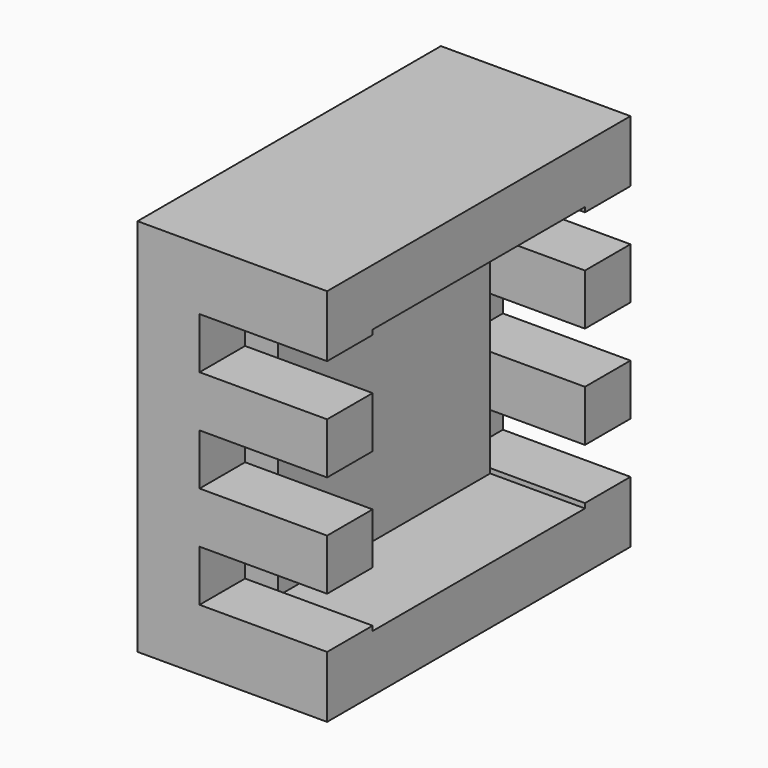
from build123d import *

# Parameters (mm, degrees)
F0_W     = 25.4
F0_H     = 50.8
F1_DEPTH = 50.8
F2_W     = 35.56
F2_H     = 35.56
F3_DEPTH = 12.7
F4_W     = 17.088712
F4_H     = 6.858
F5_DEPTH = 7.62
F6_W     = 17.0942
F6_H     = 6.858
F7_DEPTH = 7.62


with BuildPart() as f1:
    # F0 (on Front) → F1 (new body)
    with BuildSketch(Plane.XZ):
        with Locations((12.7, 25.4)):
            Rectangle(F0_W, F0_H)
    extrude(amount=F1_DEPTH)

    # F2 (on face) → F3 (cut)
    with BuildSketch(Plane.YZ.offset(25.4)):
        with Locations((-25.4, 25.4)):
            Rectangle(F2_W, F2_H)
    extrude(amount=-F3_DEPTH, mode=Mode.SUBTRACT)

    # F4 (on face) → F5 (cut)
    with BuildSketch(Plane.XZ.offset(50.8)):
        with Locations((16.855644, 39.116)):
            Rectangle(F4_W, F4_H)
        with Locations((16.855644, 25.4)):
            Rectangle(F4_W, F4_H)
        with Locations((16.855644, 11.684)):
            Rectangle(F4_W, F4_H)
    extrude(amount=-F5_DEPTH, mode=Mode.SUBTRACT)

    # F6 (on face) → F7 (cut)
    with BuildSketch(Plane(origin=(0, 0, 0), x_dir=(-1, 0, 0), z_dir=(0, 1, 0))):
        with Locations((-16.8529, 39.116)):
            Rectangle(F6_W, F6_H)
        with Locations((-16.8529, 25.4)):
            Rectangle(F6_W, F6_H)
        with Locations((-16.8529, 11.684)):
            Rectangle(F6_W, F6_H)
    extrude(amount=-F7_DEPTH, mode=Mode.SUBTRACT)


solid = f1.part
